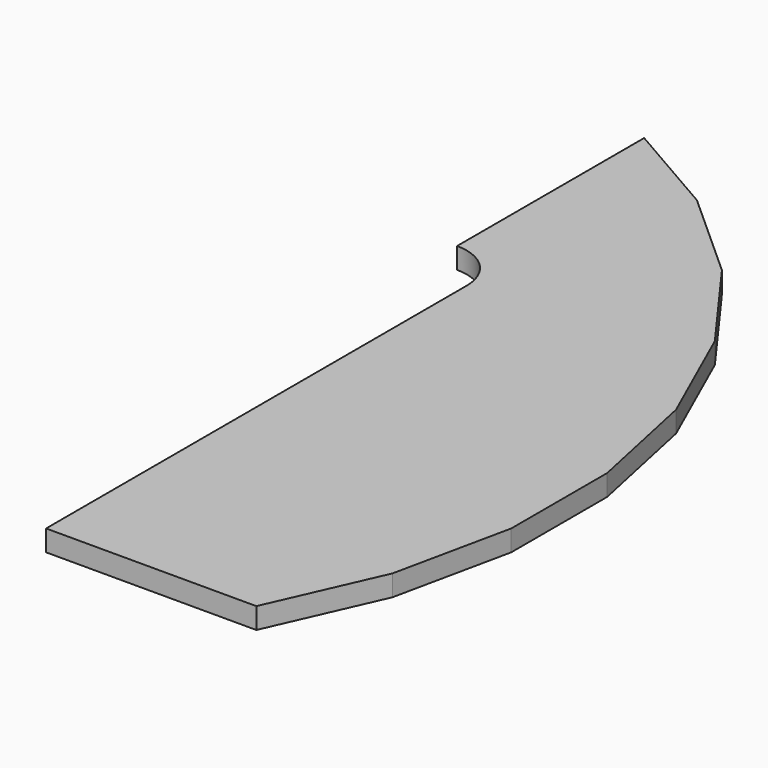
from build123d import *

# Parameters (mm, degrees)
F1_DEPTH = 22


with BuildPart() as f1:
    # F0 (on Top) → F1 (new body)
    with BuildSketch(Plane.XY):
        with BuildLine():
            Line((300, 250), (300, -300))
            Line((300, -300), (520, -300))
            Line((520, -300), (570.660691, -185.350045))
            Line((570.660691, -185.350045), (596.753608, -62.592521))
            Line((596.753608, -62.592521), (596.713076, 62.907472))
            Line((596.713076, 62.907472), (570.581421, 185.656756))
            Line((570.581421, 185.656756), (519.488048, 300.285362))
            Line((519.488048, 300.285362), (445.668405, 401.778762))
            Line((445.668405, 401.778762), (352.35202, 485.697188))
            Line((352.35202, 485.697188), (250, 544.693065))
            Line((250, 544.693065), (250, 300))
            ThreePointArc((250, 300), (285.355339, 285.355339), (300, 250))
        make_face()
    extrude(amount=F1_DEPTH)


solid = f1.part
